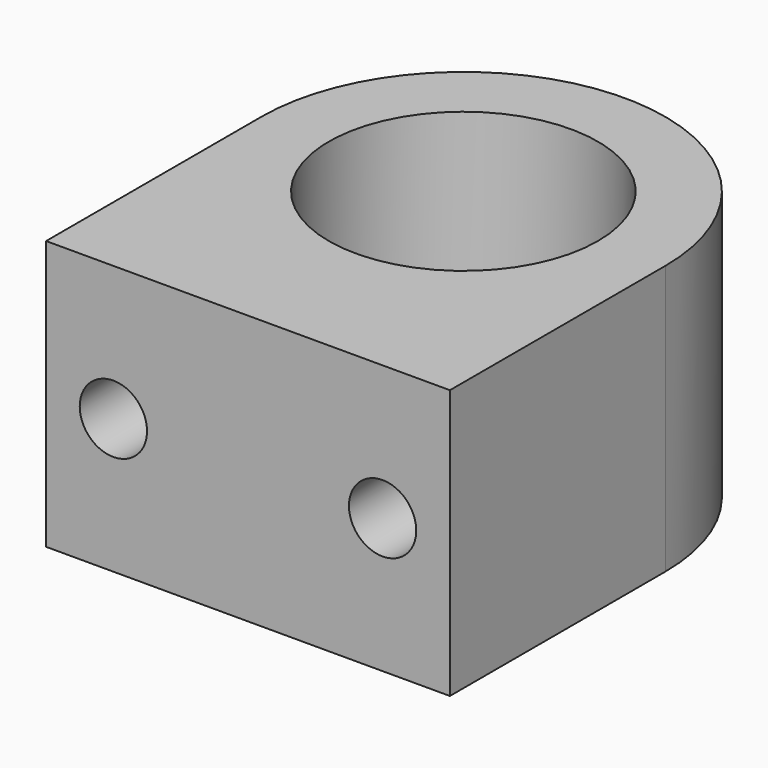
from build123d import *

# Parameters (mm, degrees)
F0_R     = 12.7
F1_DEPTH = 12.7
F3_D     = 6.35
F3_DEPTH = 12.7
F3_TIP   = 1.9077324654


with BuildPart() as f1:
    # F0 (on Top) → F1 (new body, symmetric)
    with BuildSketch(Plane.XY):
        with BuildLine():
            ThreePointArc((19.05, 0), (0, 19.05), (-19.05, 0))
            Line((-19.05, 0), (-19.05, -25.4))
            Line((-19.05, -25.4), (19.05, -25.4))
            Line((19.05, -25.4), (19.05, 0))
        make_face()
        Circle(F0_R, mode=Mode.SUBTRACT)
    extrude(amount=F1_DEPTH, both=True)

    # F3
    with Locations(Plane.XZ.offset(25.4)):
        with Locations((-12.7, 0), (12.7, 0)):
            Hole(F3_D / 2, depth=F3_DEPTH)
            with Locations((0, 0, -(F3_DEPTH + F3_TIP / 2))):  # 118° drill point
                Cone(0, F3_D / 2, F3_TIP, mode=Mode.SUBTRACT)


solid = f1.part
